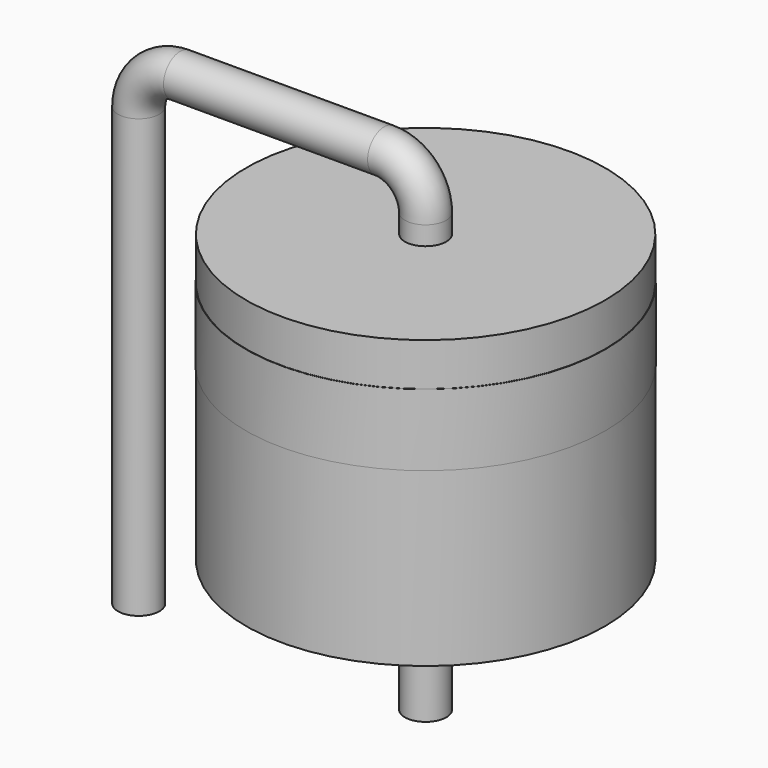
from build123d import *

# Parameters (mm, degrees)
SKETCH001_R = 0.55
SKETCH002_W = 4.765
SKETCH002_H = 7.62
SKETCH003_W = 4.775
SKETCH003_H = 1.905


with BuildPart() as sweep_body:
    # Sweep: sweep along a path in Sketch
    with BuildLine(Plane.XZ) as sweep_path:
        Line((0, -3), (0, 8.62))
        ThreePointArc((0, 8.62), (0.322183, 9.397817), (1.1, 9.72))
        Line((1.1, 9.72), (6.52, 9.72))
        ThreePointArc((6.52, 9.72), (7.297817, 9.397817), (7.62, 8.62))
        Line((7.62, 8.62), (7.62, -3))
    # Sketch001 → Sweep (sweep)
    with BuildSketch(Plane.XY):
        Circle(SKETCH001_R)
    sweep(path=sweep_path.line)


with BuildPart() as revolution:
    # Sketch002 → Revolution (revolve)
    with BuildSketch(Plane.XZ):
        with Locations((10.0025, 4.31)):
            Rectangle(SKETCH002_W, SKETCH002_H)
    revolve(axis=Axis((7.62, 0, 0.5), (0, 0, 1)))


with BuildPart() as revolution001:
    # Sketch003 → Revolution001 (revolve)
    with BuildSketch(Plane.XZ):
        with Locations((10.0075, 6.0245)):
            Rectangle(SKETCH003_W, SKETCH003_H)
    revolve(axis=Axis((7.62, 0, 5.072), (0, 0, 1)))


solid = Compound([sweep_body.part, revolution.part, revolution001.part])
